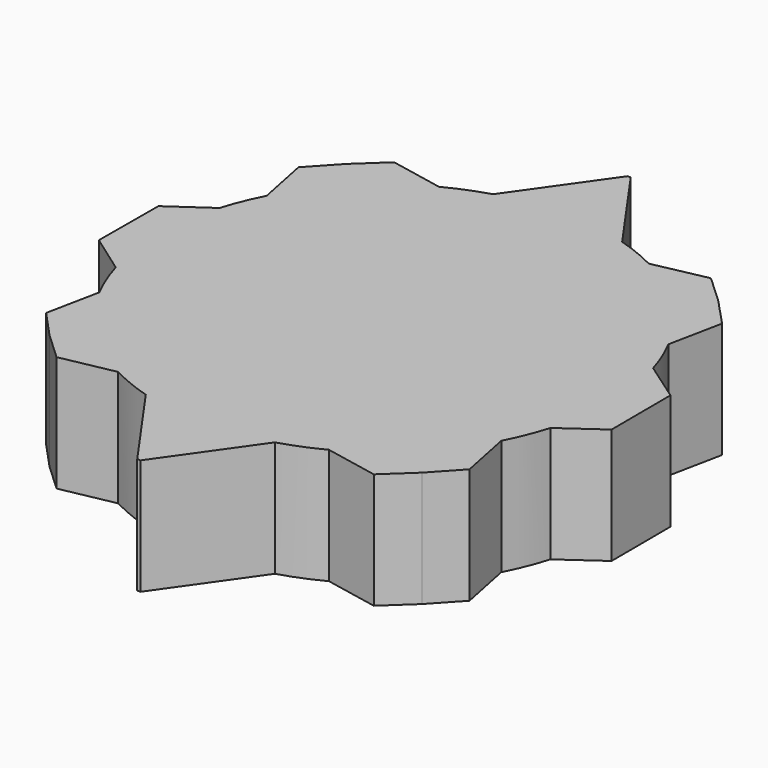
from build123d import *

# Parameters (mm, degrees)
F1_DEPTH = 25.4


with BuildPart() as f1:
    # F0 (on Top) → F1 (new body)
    with BuildSketch(Plane.XY):
        with BuildLine():
            ThreePointArc((47.7122859363, -13.9618019762), (49.2103681395, -7.0522203078), (49.7131184266, 0))
            ThreePointArc((49.7131184266, 0), (49.1801434501, 7.2600023364), (47.5926465836, 14.3643355177))
            ThreePointArc((47.5926465836, 14.3643355177), (46.0482639047, 18.7337005168), (44.1037208205, 22.9402692548))
            ThreePointArc((44.1037208205, 22.9402692548), (44.0064369096, 23.1263411333), (43.9083679732, 23.3120004638))
            ThreePointArc((43.9083679732, 23.3120004638), (35.0781695817, 35.2266399546), (23.1263411333, 44.0064369096))
            ThreePointArc((23.1263411333, 44.0064369096), (22.9402692548, 44.1037208205), (22.7537881475, 44.2002179704))
            ThreePointArc((22.7537881475, 44.2002179704), (18.5390439568, 46.126976845), (14.1631950747, 47.6528912971))
            ThreePointArc((14.1631950747, 47.6528912971), (0, 49.7131184266), (-14.1631950747, 47.6528912971))
            ThreePointArc((-14.1631950747, 47.6528912971), (-18.7337005168, 46.0482639047), (-23.1263411333, 44.0064369096))
            ThreePointArc((-23.1263411333, 44.0064369096), (-35.0781695817, 35.2266399546), (-43.9083679732, 23.3120004638))
            ThreePointArc((-43.9083679732, 23.3120004638), (-44.0064369096, 23.1263411333), (-44.1037208205, 22.9402692548))
            ThreePointArc((-44.1037208205, 22.9402692548), (-46.0482639047, 18.7337005168), (-47.5926465836, 14.3643355177))
            ThreePointArc((-47.5926465836, 14.3643355177), (-49.7126750134, 0.2099683469), (-47.7122859363, -13.9618019762))
            ThreePointArc((-47.7122859363, -13.9618019762), (-46.126976845, -18.5390439568), (-44.1037208205, -22.9402692548))
            ThreePointArc((-44.1037208205, -22.9402692548), (-35.2266399546, -35.0781695817), (-23.1263411333, -44.0064369096))
            ThreePointArc((-23.1263411333, -44.0064369096), (-18.7337005168, -46.0482639047), (-14.1631950747, -47.6528912971))
            ThreePointArc((-14.1631950747, -47.6528912971), (0, -49.7131184266), (14.1631950747, -47.6528912971))
            ThreePointArc((14.1631950747, -47.6528912971), (18.7337005168, -46.0482639047), (23.1263411333, -44.0064369096))
            ThreePointArc((23.1263411333, -44.0064369096), (35.2266399546, -35.0781695817), (44.1037208205, -22.9402692548))
            ThreePointArc((44.1037208205, -22.9402692548), (46.126976845, -18.5390439568), (47.7122859363, -13.9618019762))
        make_face()
        with BuildLine():
            ThreePointArc((47.5926465836, 14.3643355177), (49.1801434501, 7.2600023364), (49.7131184266, 0))
            ThreePointArc((49.7131184266, 0), (49.2103681395, -7.0522203078), (47.7122859363, -13.9618019762))
            Line((47.7122859363, -13.9618019762), (56.2726969336, -7.8793536944))
            Line((56.2726969336, -7.8793536944), (56.2384141516, 0.2375307071))
            Line((56.2384141516, 0.2375307071), (56.2041313696, 8.3544151086))
            Line((56.2041313696, 8.3544151086), (47.5926465836, 14.3643355177))
        make_face()
        with BuildLine():
            ThreePointArc((43.9083679732, 23.3120004638), (44.0064369096, 23.1263411333), (44.1037208205, 22.9402692548))
            Line((44.1037208205, 22.9402692548), (46.4699307321, 34.6238761452))
            Line((46.4699307321, 34.6238761452), (46.1640984989, 34.9547788448))
            Line((46.1640984989, 34.9547788448), (43.9083679732, 23.3120004638))
        make_face()
        with BuildLine():
            Line((46.4699307321, -34.6238761452), (44.1037208205, -22.9402692548))
            ThreePointArc((44.1037208205, -22.9402692548), (35.2266399546, -35.0781695817), (23.1263411333, -44.0064369096))
            Line((23.1263411333, -44.0064369096), (34.8198377376, -46.3232788292))
            Line((34.8198377376, -46.3232788292), (40.8628357217, -40.6906103699))
            Line((40.8628357217, -40.6906103699), (46.4699307321, -34.6238761452))
        make_face()
        with BuildLine():
            ThreePointArc((23.1263411333, 44.0064369096), (35.0781695817, 35.2266399546), (43.9083679732, 23.3120004638))
            Line((43.9083679732, 23.3120004638), (46.1640984989, 34.9547788448))
            Line((46.1640984989, 34.9547788448), (42.1549580296, 39.2925668886))
            Line((42.1549580296, 39.2925668886), (40.6845709139, 40.8567707034))
            Line((40.6845709139, 40.8567707034), (39.1141707233, 42.3205381322))
            Line((39.1141707233, 42.3205381322), (34.7594883629, 46.3113217589))
            Line((34.7594883629, 46.3113217589), (23.1263411333, 44.0064369096))
        make_face()
        with BuildLine():
            ThreePointArc((22.7537881475, 44.2002179704), (22.9402692548, 44.1037208205), (23.1263411333, 44.0064369096))
            Line((23.1263411333, 44.0064369096), (34.7594883629, 46.3113217589))
            Line((34.7594883629, 46.3113217589), (34.4272969016, 46.6157536635))
            Line((34.4272969016, 46.6157536635), (22.7537881475, 44.2002179704))
        make_face()
        Polygon((42.1549580296, 39.2925668886), (46.1640984989, 34.9547788448), (46.1758005709, 35.0151781831), align=None)
        with BuildLine():
            Line((0.3596355226, -67.254781723), (14.1631950747, -47.6528912971))
            ThreePointArc((14.1631950747, -47.6528912971), (0, -49.7131184266), (-14.1631950747, -47.6528912971))
            Line((-14.1631950747, -47.6528912971), (-0.3596355226, -67.254781723))
            Line((-0.3596355226, -67.254781723), (0, -67.254781723))
            Line((0, -67.254781723), (0.3596355226, -67.254781723))
        make_face()
        Polygon((34.8198377376, 46.3232788292), (34.7594883629, 46.3113217589), (39.1141707233, 42.3205381322), align=None)
        Polygon((40.6845709139, 40.8567707034), (42.1549580296, 39.2925668886), (40.8628357217, 40.6906103699), align=None)
        with BuildLine():
            ThreePointArc((-14.1631950747, 47.6528912971), (0, 49.7131184266), (14.1631950747, 47.6528912971))
            Line((14.1631950747, 47.6528912971), (0.3596355226, 67.254781723))
            Line((0.3596355226, 67.254781723), (0, 67.254781723))
            Line((0, 67.254781723), (-0.3596355226, 67.254781723))
            Line((-0.3596355226, 67.254781723), (-14.1631950747, 47.6528912971))
        make_face()
        Polygon((40.5176591431, 41.0343321263), (39.1141707233, 42.3205381322), (40.6845709139, 40.8567707034), align=None)
        with BuildLine():
            Line((-34.8198377376, -46.3232788292), (-23.1263411333, -44.0064369096))
            ThreePointArc((-23.1263411333, -44.0064369096), (-35.2266399546, -35.0781695817), (-44.1037208205, -22.9402692548))
            Line((-44.1037208205, -22.9402692548), (-46.4699307321, -34.6238761452))
            Line((-46.4699307321, -34.6238761452), (-40.8628357217, -40.6906103699))
            Line((-40.8628357217, -40.6906103699), (-34.8198377376, -46.3232788292))
        make_face()
        with BuildLine():
            ThreePointArc((-43.9083679732, 23.3120004638), (-35.0781695817, 35.2266399546), (-23.1263411333, 44.0064369096))
            Line((-23.1263411333, 44.0064369096), (-34.8198377376, 46.3232788292))
            Line((-34.8198377376, 46.3232788292), (-40.8628357217, 40.6906103699))
            Line((-40.8628357217, 40.6906103699), (-46.1640984989, 34.9547788448))
            Line((-46.1640984989, 34.9547788448), (-43.9083679732, 23.3120004638))
        make_face()
        with BuildLine():
            Line((-56.2726969336, -7.8793536944), (-47.7122859363, -13.9618019762))
            ThreePointArc((-47.7122859363, -13.9618019762), (-49.7126750134, 0.2099683469), (-47.5926465836, 14.3643355177))
            Line((-47.5926465836, 14.3643355177), (-56.2041313696, 8.3544151086))
            Line((-56.2041313696, 8.3544151086), (-56.2384141516, 0.2375307071))
            Line((-56.2384141516, 0.2375307071), (-56.2726969336, -7.8793536944))
        make_face()
        with BuildLine():
            ThreePointArc((-44.1037208205, 22.9402692548), (-44.0064369096, 23.1263411333), (-43.9083679732, 23.3120004638))
            Line((-43.9083679732, 23.3120004638), (-46.1640984989, 34.9547788448))
            Line((-46.1640984989, 34.9547788448), (-46.4699307321, 34.6238761452))
            Line((-46.4699307321, 34.6238761452), (-44.1037208205, 22.9402692548))
        make_face()
    extrude(amount=F1_DEPTH)


solid = f1.part
